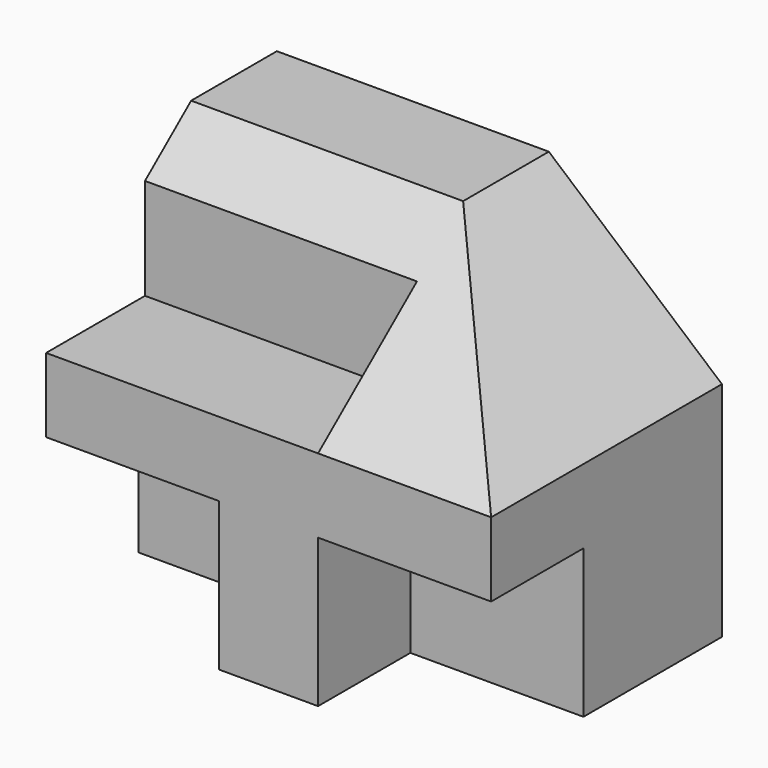
from build123d import *

# Parameters (mm, degrees)
F0_W     = 1620
F0_H     = 1350
F1_DEPTH = 525
F2_W     = 630
F2_H     = 540
F3_DEPTH = 420
F4_W     = 990
F4_H     = 450
F5_DEPTH = 540
F7_DEPTH = 1620.001
F9_DEPTH = 1050.001


with BuildPart() as f1:
    # F0 (on Front) → F1 (new body, symmetric)
    with BuildSketch(Plane.XZ):
        Rectangle(F0_W, F0_H)
    extrude(amount=F1_DEPTH, both=True)

    # F2 (on face) → F3 (cut)
    with BuildSketch(Plane.XZ.offset(525)):
        with Locations((-495, -405)):
            Rectangle(F2_W, F2_H)
        with Locations((495, -405)):
            Rectangle(F2_W, F2_H)
    extrude(amount=-F3_DEPTH, mode=Mode.SUBTRACT)

    # F4 (on face) → F5 (cut)
    with BuildSketch(Plane.XY.offset(675)):
        with Locations((-315, -300)):
            Rectangle(F4_W, F4_H)
    extrude(amount=-F5_DEPTH, mode=Mode.SUBTRACT)

    # F6 (on face) → F7 (cut, through all)
    with BuildSketch(Plane.YZ.offset(810)):
        Polygon((135, 675), (-525, 675), (-525, 135), align=None)
    extrude(amount=-F7_DEPTH, mode=Mode.SUBTRACT)

    # F8 (on face) → F9 (cut, through all)
    with BuildSketch(Plane.XZ.offset(525)):
        Polygon((180, 675), (810, 135), (810, 675), align=None)
    extrude(amount=-F9_DEPTH, mode=Mode.SUBTRACT)


solid = f1.part
